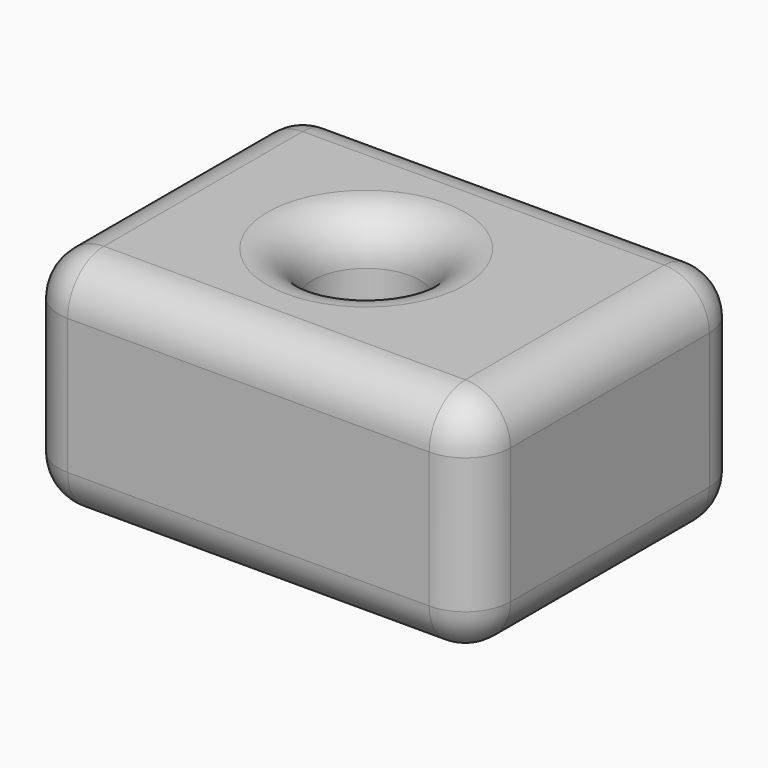
from build123d import *

# Parameters (mm, degrees)
F0_W     = 50.8
F0_H     = 38.1
F0_R     = 6.024036
F1_DEPTH = 25.4
F2_R     = 5.08


with BuildPart() as f1:
    # F0 (on Top) → F1 (new body)
    with BuildSketch(Plane.XY):
        with Locations((25.4, 19.05)):
            Rectangle(F0_W, F0_H)
        with Locations((23.342034, 19.118093)):
            Circle(F0_R, mode=Mode.SUBTRACT)
    extrude(amount=F1_DEPTH)

    # F2
    f2_edges = [f1.edges().sort_by_distance(p)[0] for p in [
        (50.8, 0, 12.7),
        (50.8, 38.1, 12.7),
        (50.8, 19.05, 0),
        (50.8, 19.05, 25.4),
        (0, 38.1, 12.7),
        (0, 0, 12.7),
        (0, 19.05, 0),
        (0, 19.05, 25.4),
        (25.4, 0, 25.4),
        (25.4, 38.1, 25.4),
        (17.317997, 19.118093, 25.4),
        (25.4, 0, 0),
        (25.4, 38.1, 0),
        (17.317997, 19.118093, 0),
    ]]
    fillet(f2_edges, radius=F2_R)


solid = f1.part
